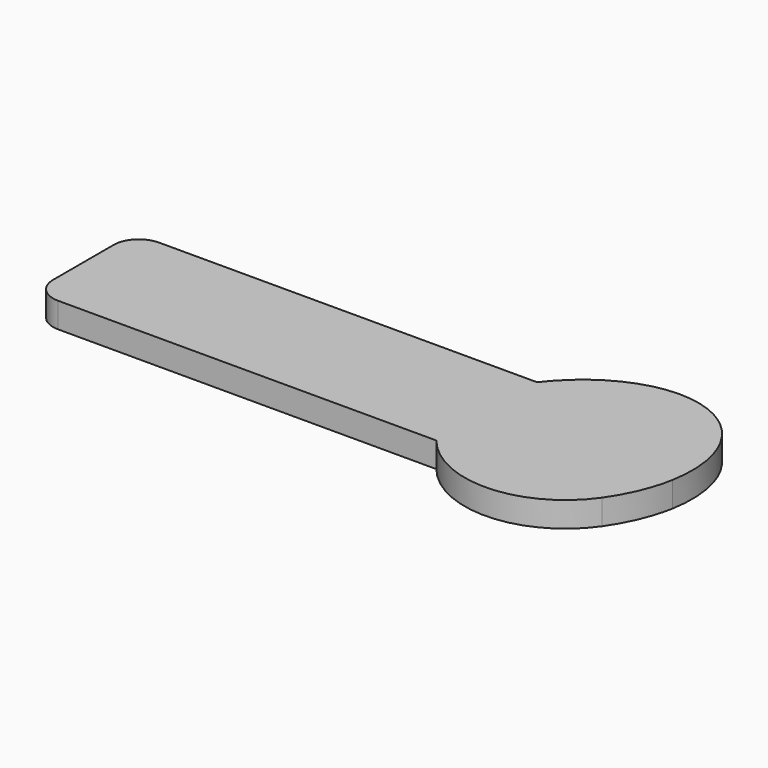
from build123d import *

# Parameters (mm, degrees)
F1_DEPTH = 6.35
F2_R     = 6.35


with BuildPart() as f1:
    # F0 (on Top) → F1 (new body)
    with BuildSketch(Plane.XY):
        with BuildLine():
            add(Edge.make_bspline(
                [(-19.8501589651, 15.875), (-20.3419955534, 15.232168206), (-20.8064619249, 14.5688414833)],
                knots=[1.5189156006, 1.5189156006, 1.5189156006, 1.5707963268, 1.5707963268, 1.5707963268], degree=2, weights=[1, 0.9996635676, 1]))
            ThreePointArc((-20.8064619249, 14.5688414833), (-25.386887881, -0.8160414938), (-19.8278686449, -15.875))
            ThreePointArc((-19.8278686449, -15.875), (0.8160414938, -25.386887881), (20.8064619249, -14.5688414833))
            add(Edge.make_bspline(
                [(20.8064619249, -14.5688414833), (25.5490601214, -7.7957093222), (26.9403423198, 0)],
                knots=[4.7123889804, 4.7123889804, 4.7123889804, 5.2303546369, 5.2303546369, 5.2303546369], degree=2, weights=[1, 0.9666509732, 1]))
            add(Edge.make_bspline(
                [(26.9403423198, 0), (29.9920251657, 17.099358015), (17.9011443111, 25.5654838108)],
                knots=[5.2303546369, 5.2303546369, 5.2303546369, 6.2831853127, 6.2831853127, 6.2831853127], degree=2, weights=[1, 0.8646136894, 1]))
            add(Edge.make_bspline(
                [(17.9011443111, 25.5654838108), (-1.8529265857, 39.3974329633), (-19.8501589651, 15.875)],
                knots=[5.5e-09, 5.5e-09, 5.5e-09, 1.5189156006, 1.5189156006, 1.5189156006], degree=2, weights=[1, 0.7252094391, 1]))
        make_face()
        with BuildLine():
            ThreePointArc((-19.8278686449, -15.875), (-25.386887881, -0.8160414938), (-20.8064619249, 14.5688414833))
            add(Edge.make_bspline(
                [(-19.8501589651, 15.875), (-20.3419955534, 15.232168206), (-20.8064619249, 14.5688414833)],
                knots=[1.5189156006, 1.5189156006, 1.5189156006, 1.5707963268, 1.5707963268, 1.5707963268], degree=2, weights=[1, 0.9996635676, 1]))
            Line((-19.8501589651, 15.875), (-121.4278686449, 15.875))
            Line((-121.4278686449, 15.875), (-121.4278686449, -15.875))
            Line((-121.4278686449, -15.875), (-19.8278686449, -15.875))
        make_face()
    extrude(amount=F1_DEPTH)

    # F2
    f2_edges = [f1.edges().sort_by_distance(p)[0] for p in [
        (-121.427869, 15.875, 3.175),
        (-121.427869, -15.875, 3.175),
    ]]
    fillet(f2_edges, radius=F2_R)


solid = f1.part
